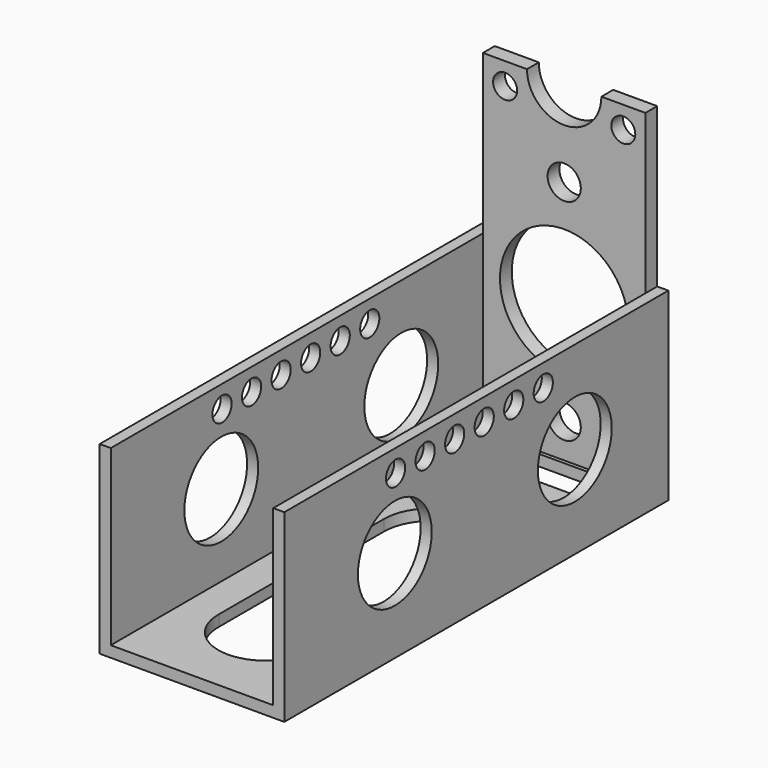
from build123d import *

# Parameters (mm, degrees)
F1_DEPTH  = 130
F2_R      = 4.5
F2_R_2    = 17.4
F2_R_3    = 3.25
F3_DEPTH  = 4
F1_FACE_W = 50
F1_FACE_H = 130
F5_DEPTH  = 25.001
F7_R      = 12.5
F8_DEPTH  = 50.001
F7_R_2    = 3.25
F9_DEPTH  = 50.001


with BuildPart() as f1:
    # F0 (on Front) → F1 (new body)
    with BuildSketch(Plane.XZ):
        Polygon((25, -25), (25, 25), (22, 25), (22, -22), (-22, -22), (-22, 25), (-25, 25), (-25, -25), align=None)
    extrude(amount=F1_DEPTH)

    # F2 (on Front) → F3 (join)
    with BuildSketch(Plane.XZ):
        with BuildLine():
            Line((-22, 25), (-22, -22))
            Line((-22, -22), (22, -22))
            Line((22, -22), (22, 68))
            Line((22, 68), (10.0712478979, 68))
            ThreePointArc((10.0712478979, 68), (0, 57.9287521021), (-10.0712478979, 68))
            Line((-10.0712478979, 68), (-22, 68))
            Line((-22, 68), (-22, 25))
        make_face()
        with Locations((0, -12.6673281193)):
            Circle(F2_R, mode=Mode.SUBTRACT)
        with Locations((0, 15.7326718807)):
            Circle(F2_R_2, mode=Mode.SUBTRACT)
        with Locations((-16, 62)):
            Circle(F2_R_3, mode=Mode.SUBTRACT)
        with Locations((0, 44.3326718807)):
            Circle(F2_R, mode=Mode.SUBTRACT)
        with Locations((16, 62)):
            Circle(F2_R_3, mode=Mode.SUBTRACT)
    extrude(amount=F3_DEPTH)

    # F4 (on Top) + F1_face (on face) → F5 (cut, through all)
    with BuildSketch(Plane.XY):
        with BuildLine():
            Line((-12.9999999838, -48.7308816649), (-12.9972082527, -104.5789601389))
            ThreePointArc((-12.9972082527, -104.5789601389), (-0.1347084156, -117.8476645499), (13, -104.8483625054))
            Line((13, -104.8483625054), (13, -48.7302318215))
            ThreePointArc((13, -48.7302318215), (-0.0003249217, -35.7302318256), (-12.9999999838, -48.7308816649))
        make_face()
        with BuildLine():
            Line((9.9999410594, -5.0000000003), (-9.9515041286, -5.0002351905))
            ThreePointArc((-9.9515041286, -5.0002351905), (-14.9977215138, -9.8490706455), (-10.2532994666, -14.9935798161))
            Line((-10.2532994666, -14.9935798161), (-9.7498665822, -14.9937394078))
            Line((-9.7498665822, -14.9937394078), (9.9984149657, -14.9999997488))
            ThreePointArc((9.9984149657, -14.9999997488), (14.9999999418, -10.0007630468), (9.9999410594, -5.0000000003))
        make_face()
        with BuildLine():
            Line((-9.7498665822, -14.9937394078), (-10.2532994666, -14.9935798161))
            ThreePointArc((-10.2532994666, -14.9935798161), (-10.0015850343, -14.9999997488), (-9.7498665822, -14.9937394078))
        make_face()
    with BuildSketch(Plane(origin=(0, -65, -25), x_dir=(1, 0, 0), z_dir=(0, 0, -1))):
        Rectangle(F1_FACE_W, F1_FACE_H)
    extrude(amount=-F5_DEPTH, dir=(0, 0, 1), mode=Mode.SUBTRACT)

    # F7 (on face) → F8 (cut, through all)
    with BuildSketch(Plane(origin=(-25, 0, 0), x_dir=(0, -1, 0), z_dir=(-1, 0, 0))):
        with Locations((31.6511541605, 0)):
            Circle(F7_R)
        with Locations((92.5872474909, 0)):
            Circle(F7_R)
    extrude(amount=-F8_DEPTH, mode=Mode.SUBTRACT)

    # F7 (on face) → F9 (cut, through all)
    with BuildSketch(Plane(origin=(-25, 0, 0), x_dir=(0, -1, 0), z_dir=(-1, 0, 0))):
        with Locations((92.5872474909, 0)):
            Circle(F7_R)
        with Locations((31.6511541605, 0)):
            Circle(F7_R)
        with Locations((92.3290103674, 19)):
            Circle(F7_R_2)
        with Locations((82.3290103674, 19)):
            Circle(F7_R_2)
        with Locations((72.3290103674, 19)):
            Circle(F7_R_2)
        with Locations((62.3290103674, 19)):
            Circle(F7_R_2)
        with Locations((52.3290103674, 19)):
            Circle(F7_R_2)
        with Locations((42.3290103674, 19)):
            Circle(F7_R_2)
    extrude(amount=-F9_DEPTH, mode=Mode.SUBTRACT)


solid = f1.part
